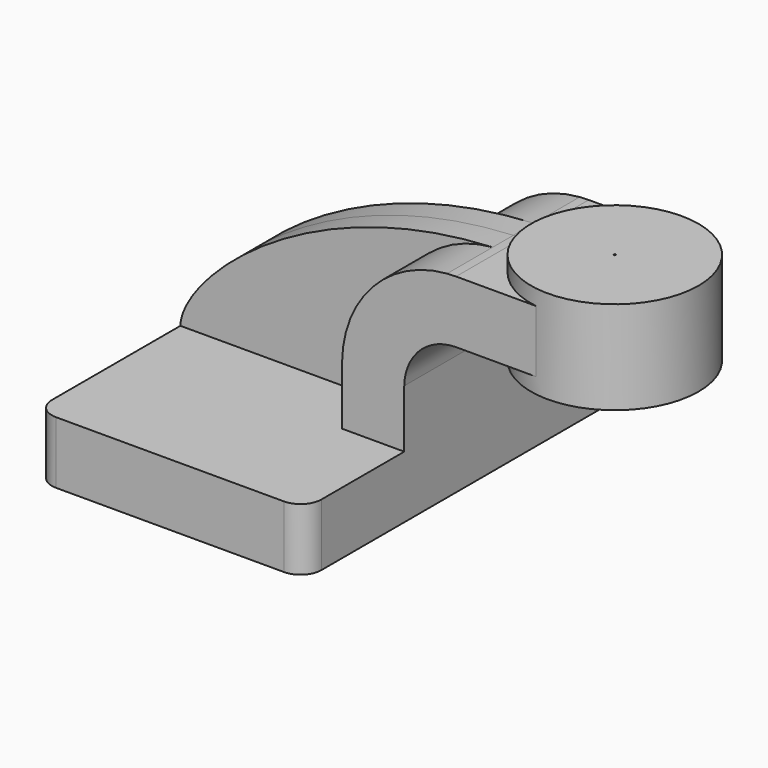
from build123d import *

# Parameters (mm, degrees)
F1_DEPTH = 63.5
F2_DEPTH = 25.4
F3_DEPTH = 7.9375
F5_R     = 6.35


with BuildPart() as f1:
    # F0 (on Front) → F1 (new body, symmetric)
    with BuildSketch(Plane.XZ):
        Polygon((-41.275, -9.525), (41.275, -9.525), (41.275, 9.525), (22.225, 9.525), (-41.275, 9.525), align=None)
    extrude(amount=F1_DEPTH, both=True)

    # F0 (on Front) → F2 (join, symmetric)
    with BuildSketch(Plane.XZ):
        with BuildLine():
            Line((22.225, 9.525), (41.275, 9.525))
            Line((41.275, 9.525), (41.275, 27.277773))
            ThreePointArc((41.275, 27.277773), (46.020823, 38.323232), (57.147573, 42.8752))
            Line((57.147573, 42.8752), (60.325, 42.8752))
            Line((60.325, 42.8752), (60.325, 57.277))
            Line((60.325, 57.277), (60.325, 61.9252))
            Line((60.325, 61.9252), (57.147573, 61.9252))
            add(Edge.make_bspline(
                [(54.397042, 61.816722), (55.308689, 61.860952), (56.225552, 61.897181), (57.147573, 61.9252)],
                knots=[109.785705, 109.785705, 109.785705, 109.785705, 111.502394, 111.502394, 111.502394, 111.502394], degree=3))
            ThreePointArc((54.397042, 61.816722), (31.637999, 50.854282), (22.225, 27.411915))
            Line((22.225, 27.411915), (22.225, 9.525))
        make_face()
        Polygon((60.325, 57.277), (60.325, 42.8752), (85.450254, 42.8752), (85.450254, 61.9252), (60.325, 61.9252), align=None)
    extrude(amount=F2_DEPTH, both=True)

    # F0 (on Front) → F3 (join, symmetric)
    with BuildSketch(Plane.XZ):
        with BuildLine():
            add(Edge.make_bspline(
                [(-41.275, 9.525), (-40.874115, 23.43416), (-3.90464, 58.988111), (54.397042, 61.816722)],
                knots=[0, 0, 0, 0, 109.785705, 109.785705, 109.785705, 109.785705], degree=3))
            Line((-41.275, 9.525), (22.225, 9.525))
            Line((22.225, 9.525), (22.225, 27.411915))
            ThreePointArc((22.225, 27.411915), (31.637999, 50.854282), (54.397042, 61.816722))
        make_face()
    extrude(amount=F3_DEPTH, both=True)

    # F0 (on Front) → F4 (revolve)
    with BuildSketch(Plane.XZ):
        Polygon((85.450254, 61.9252), (85.450254, 42.8752), (85.725, 38.1), (111.125, 38.1), (111.125, 66.675), (85.725, 66.675), align=None)
    revolve(axis=Axis((85.450254, 0, 52.4002), (0, 0, -1)))

    # F5
    f5_edges = [f1.edges().sort_by_distance(p)[0] for p in [
        (41.275, -63.5, 0),
        (-41.275, -63.5, 0),
        (41.275, 63.5, 0),
        (-41.275, 63.5, 0),
    ]]
    fillet(f5_edges, radius=F5_R)


solid = f1.part
